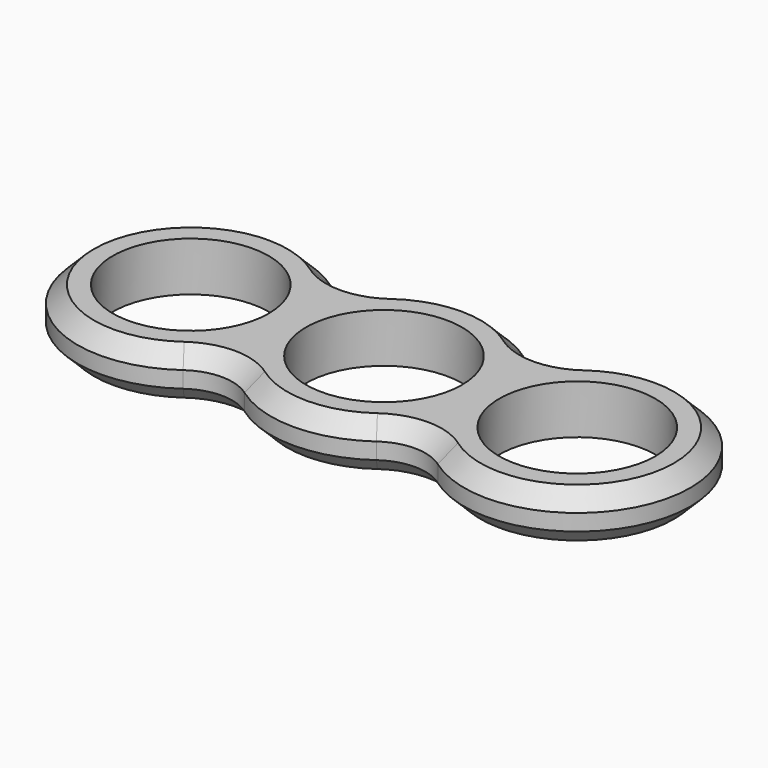
from build123d import *

# Parameters (mm, degrees)
F0_R     = 11.1
F1_DEPTH = 7
F2_R     = 7.5
F3_SIZE  = 2.3333333333


with BuildPart() as f1:
    # F0 (on Top) → F1 (new body)
    with BuildSketch(Plane.XY):
        with BuildLine():
            ThreePointArc((13.75, -8.3754104377), (15.5013709071, -4.3494252494), (16.1, 0))
            ThreePointArc((16.1, 0), (15.5013709071, 4.3494252494), (13.75, 8.3754104377))
            ThreePointArc((13.75, 8.3754104377), (11.4, 0), (13.75, -8.3754104377))
        make_face()
        with BuildLine():
            ThreePointArc((13.75, 8.3754104377), (15.5013709071, 4.3494252494), (16.1, 0))
            ThreePointArc((16.1, 0), (15.5013709071, -4.3494252494), (13.75, -8.3754104377))
            ThreePointArc((13.75, -8.3754104377), (31.8494252494, -15.5013709071), (43.6, 0))
            ThreePointArc((43.6, 0), (31.8494252494, 15.5013709071), (13.75, 8.3754104377))
        make_face()
        with Locations((27.5, 0)):
            Circle(F0_R, mode=Mode.SUBTRACT)
        with BuildLine():
            ThreePointArc((13.75, -8.3754104377), (11.4, 0), (13.75, 8.3754104377))
            ThreePointArc((13.75, 8.3754104377), (0, 16.1), (-13.75, 8.3754104377))
            ThreePointArc((-13.75, 8.3754104377), (-11.9986290929, 4.3494252494), (-11.4, 0))
            ThreePointArc((-11.4, 0), (-11.9986290929, -4.3494252494), (-13.75, -8.3754104377))
            ThreePointArc((-13.75, -8.3754104377), (0, -16.1), (13.75, -8.3754104377))
        make_face()
        Circle(F0_R, mode=Mode.SUBTRACT)
        with BuildLine():
            ThreePointArc((-11.4, 0), (-11.9986290929, 4.3494252494), (-13.75, 8.3754104377))
            ThreePointArc((-13.75, 8.3754104377), (-16.1, 0), (-13.75, -8.3754104377))
            ThreePointArc((-13.75, -8.3754104377), (-11.9986290929, -4.3494252494), (-11.4, 0))
        make_face()
        with BuildLine():
            ThreePointArc((-13.75, -8.3754104377), (-16.1, 0), (-13.75, 8.3754104377))
            ThreePointArc((-13.75, 8.3754104377), (-43.6, 0), (-13.75, -8.3754104377))
        make_face()
        with Locations((-27.5, 0)):
            Circle(F0_R, mode=Mode.SUBTRACT)
    extrude(amount=F1_DEPTH)

    # F2
    f2_edges = [f1.edges().sort_by_distance(p)[0] for p in [
        (-13.75, 8.37541, 3.5),
        (13.75, 8.37541, 3.5),
        (-13.75, -8.37541, 3.5),
        (13.75, -8.37541, 3.5),
    ]]
    fillet(f2_edges, radius=F2_R)

    # F3
    f3_edges = [f1.edges().sort_by_distance(p)[0] for p in [
        (0, 16.1, 7),
        (-13.75, 11.680654, 7),
        (-43.6, 0, 0),
    ]]
    chamfer(f3_edges, length=F3_SIZE)


solid = f1.part
